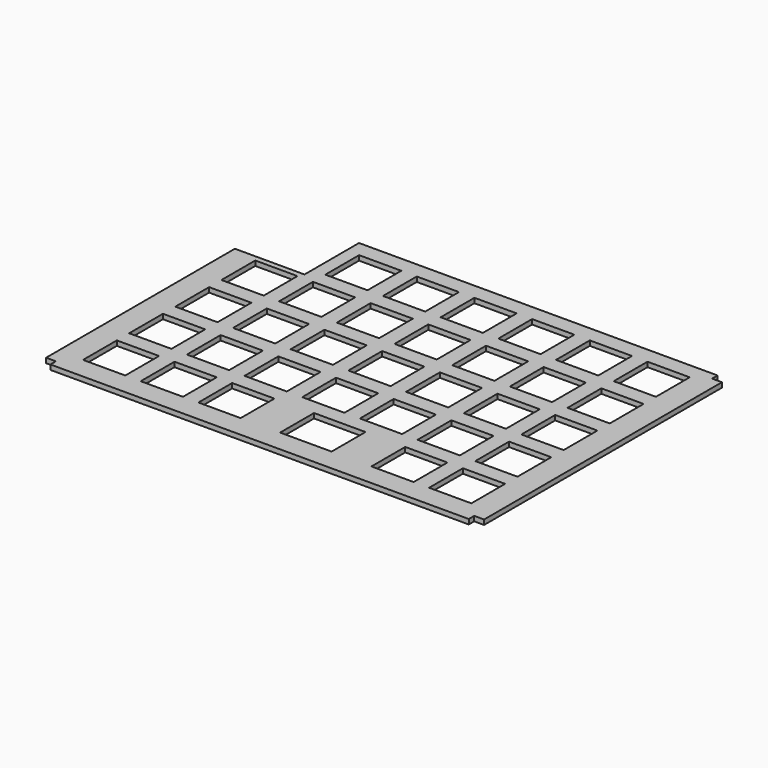
from build123d import *

# Parameters (mm, degrees)
PAD004_DEPTH    = 1.6
SKETCH010_W     = 13.95
SKETCH010_H     = 13.95
POCKET004_DEPTH = 1.6
SKETCH013_W     = 17
SKETCH013_H     = 14
POCKET005_DEPTH = 1.6


with BuildPart() as part:
    # Sketch008 → Pad004 (new body)
    with BuildSketch(Plane.XY.offset(9.9)):
        Polygon((25.3, 104.99), (143.71, 104.99), (143.71, 102.74), (146.96, 102.74), (146.96, 4.55), (143.71, 4.55), (143.71, 2.3), (5.55, 2.3), (5.55, 4.55), (2.3, 4.55), (2.3, 82.49), (25.3, 82.49), align=None)
    extrude(amount=PAD004_DEPTH)

    # Sketch010 (on Face13 of Pad004) → Pocket004 (cut)
    with BuildSketch(Plane(origin=(0, 0, 9.9), x_dir=(1, 0, 0), z_dir=(0, 0, -1))):
        with Locations((131.78, -16.525)):
            Rectangle(SKETCH010_W, SKETCH010_H)
        with Locations((55.58, -16.525)):
            Rectangle(SKETCH010_W, SKETCH010_H)
        with Locations((36.53, -16.525)):
            Rectangle(SKETCH010_W, SKETCH010_H)
        with Locations((17.48, -16.525)):
            Rectangle(SKETCH010_W, SKETCH010_H)
        with Locations((131.78, -35.575)):
            Rectangle(SKETCH010_W, SKETCH010_H)
        with Locations((112.73, -35.575)):
            Rectangle(SKETCH010_W, SKETCH010_H)
        with Locations((93.68, -35.575)):
            Rectangle(SKETCH010_W, SKETCH010_H)
        with Locations((74.63, -35.575)):
            Rectangle(SKETCH010_W, SKETCH010_H)
        with Locations((55.58, -35.575)):
            Rectangle(SKETCH010_W, SKETCH010_H)
        with Locations((36.53, -35.575)):
            Rectangle(SKETCH010_W, SKETCH010_H)
        with Locations((17.48, -35.575)):
            Rectangle(SKETCH010_W, SKETCH010_H)
        with Locations((131.78, -54.625)):
            Rectangle(SKETCH010_W, SKETCH010_H)
        with Locations((112.73, -54.625)):
            Rectangle(SKETCH010_W, SKETCH010_H)
        with Locations((93.68, -54.625)):
            Rectangle(SKETCH010_W, SKETCH010_H)
        with Locations((74.63, -54.625)):
            Rectangle(SKETCH010_W, SKETCH010_H)
        with Locations((55.58, -54.625)):
            Rectangle(SKETCH010_W, SKETCH010_H)
        with Locations((36.53, -54.625)):
            Rectangle(SKETCH010_W, SKETCH010_H)
        with Locations((17.48, -54.625)):
            Rectangle(SKETCH010_W, SKETCH010_H)
        with Locations((131.78, -73.675)):
            Rectangle(SKETCH010_W, SKETCH010_H)
        with Locations((112.73, -73.675)):
            Rectangle(SKETCH010_W, SKETCH010_H)
        with Locations((93.68, -73.675)):
            Rectangle(SKETCH010_W, SKETCH010_H)
        with Locations((74.63, -73.675)):
            Rectangle(SKETCH010_W, SKETCH010_H)
        with Locations((55.58, -73.675)):
            Rectangle(SKETCH010_W, SKETCH010_H)
        with Locations((36.53, -73.675)):
            Rectangle(SKETCH010_W, SKETCH010_H)
        with Locations((17.48, -73.675)):
            Rectangle(SKETCH010_W, SKETCH010_H)
        with Locations((131.78, -92.725)):
            Rectangle(SKETCH010_W, SKETCH010_H)
        with Locations((112.73, -92.725)):
            Rectangle(SKETCH010_W, SKETCH010_H)
        with Locations((93.68, -92.725)):
            Rectangle(SKETCH010_W, SKETCH010_H)
        with Locations((74.63, -92.725)):
            Rectangle(SKETCH010_W, SKETCH010_H)
        with Locations((55.58, -92.725)):
            Rectangle(SKETCH010_W, SKETCH010_H)
        with Locations((36.53, -92.725)):
            Rectangle(SKETCH010_W, SKETCH010_H)
        with Locations((112.73, -16.525)):
            Rectangle(SKETCH010_W, SKETCH010_H)
    extrude(amount=-POCKET004_DEPTH, mode=Mode.SUBTRACT)

    # Sketch013 (on Face5 of Pocket004) → Pocket005 (cut)
    with BuildSketch(Plane.XY.offset(11.5)):
        with Locations((84.055, 16.6)):
            Rectangle(SKETCH013_W, SKETCH013_H)
    extrude(amount=-POCKET005_DEPTH, mode=Mode.SUBTRACT)


solid = part.part
